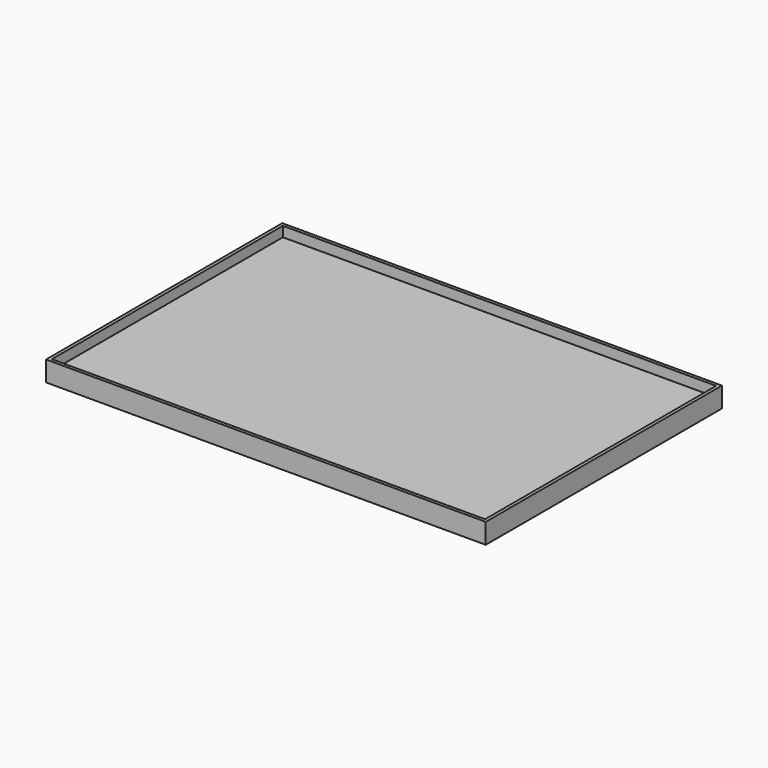
from build123d import *

# Parameters (mm, degrees)
SKETCH_W      = 3000
SKETCH_H      = 2000
PAD_DEPTH     = 50
SKETCH001_W   = 3044
SKETCH001_H   = 2044
SKETCH001_W_2 = 3000
SKETCH001_H_2 = 2000
PAD001_DEPTH  = 70


with BuildPart() as part:
    # Sketch → Pad (new body)
    with BuildSketch(Plane.XY):
        Rectangle(SKETCH_W, SKETCH_H)
    extrude(amount=PAD_DEPTH)

    # Sketch001 → Pad001 (new body, symmetric)
    with BuildSketch(Plane.XY.offset(50)):
        Rectangle(SKETCH001_W, SKETCH001_H)
        Rectangle(SKETCH001_W_2, SKETCH001_H_2, mode=Mode.SUBTRACT)
    extrude(amount=PAD001_DEPTH, both=True)


solid = part.part
